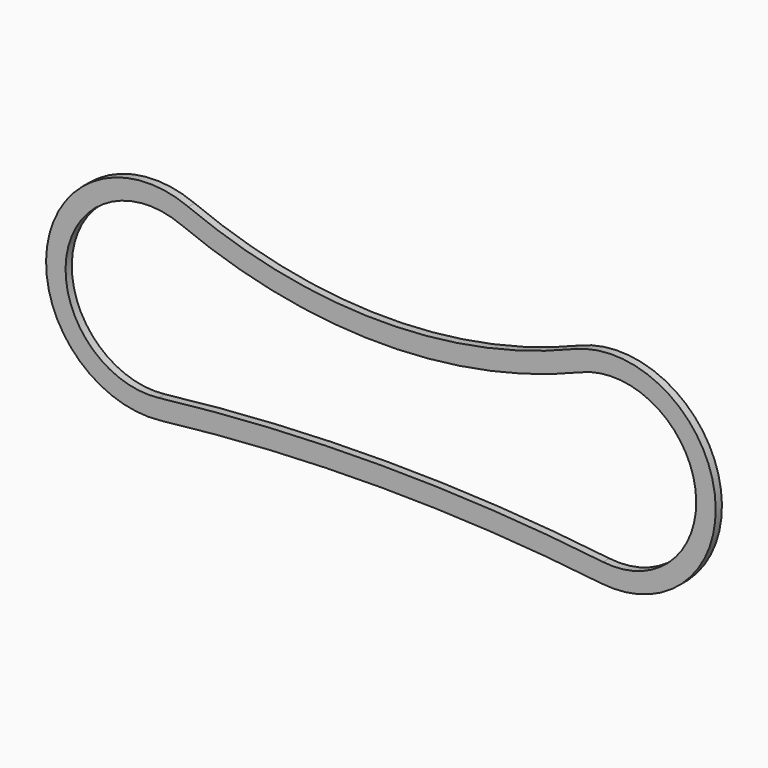
from build123d import *

# Parameters (mm, degrees)
F1_DEPTH = 20


with BuildPart() as f1:
    # F0 (on Front) → F1 (new body)
    with BuildSketch(Plane.XZ):
        with BuildLine():
            ThreePointArc((487.291066, 243.808967), (-6.874031, 145.651993), (-501.039127, 243.808967))
            ThreePointArc((-501.039127, 243.808967), (-863.21201, 36.234665), (-571.176224, -262.046055))
            ThreePointArc((-571.176224, -262.046055), (-6.874031, -229.105639), (557.428163, -262.046055))
            ThreePointArc((557.428163, -262.046055), (849.463948, 36.234665), (487.291066, 243.808967))
        make_face()
        with BuildLine():
            ThreePointArc((-576.993772, -212.385647), (-813.685789, 29.367825), (-520.148373, 197.604674))
            ThreePointArc((-520.148373, 197.604674), (-6.874031, 95.651993), (506.400311, 197.604674))
            ThreePointArc((506.400311, 197.604674), (799.937728, 29.367825), (563.245711, -212.385647))
            ThreePointArc((563.245711, -212.385647), (-6.874031, -179.105639), (-576.993772, -212.385647))
        make_face(mode=Mode.SUBTRACT)
    extrude(amount=F1_DEPTH)


solid = f1.part
